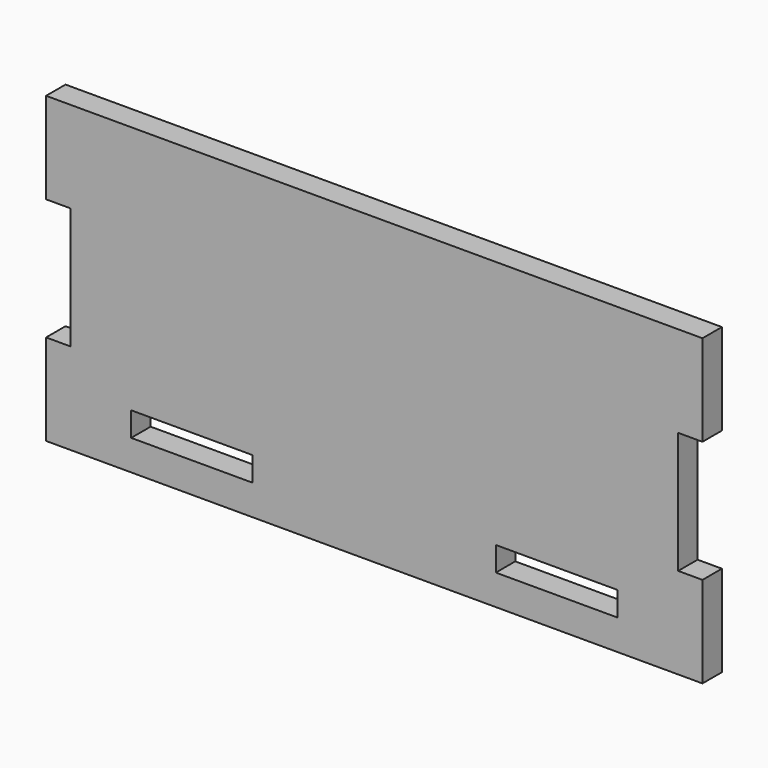
from build123d import *

# Parameters (mm, degrees)
F0_W     = 20
F0_H     = 4
F1_DEPTH = 4


with BuildPart() as f1:
    # F0 (on Front) → F1 (new body)
    with BuildSketch(Plane.XZ):
        Polygon((54, 10), (54, 25), (-54, 25), (-54, 10), (-50, 10), (-50, -10), (-54, -10), (-54, -25), (54, -25), (54, -10), (50, -10), (50, 10), align=None)
        with Locations((-30, -18)):
            Rectangle(F0_W, F0_H, mode=Mode.SUBTRACT)
        with Locations((30, -18)):
            Rectangle(F0_W, F0_H, mode=Mode.SUBTRACT)
    extrude(amount=F1_DEPTH)


solid = f1.part
